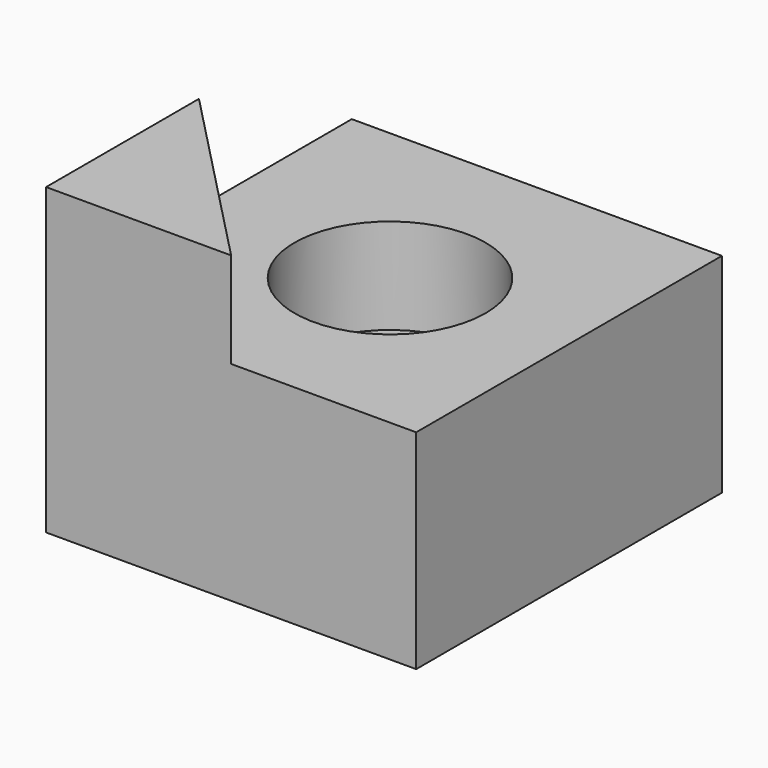
from build123d import *

# Parameters (mm, degrees)
F0_W     = 98.3961671591
F0_H     = 55.4385446012
F1_DEPTH = 101.6
F2_R     = 25.4
F3_DEPTH = 25.4
F5_DEPTH = 25.399999693
F6_R     = 6.6402223844
F7_DEPTH = 25


with BuildPart() as f1:
    # F0 (on Front) → F1 (new body)
    with BuildSketch(Plane.XZ):
        with Locations((49.1980835795, 27.7192723006)):
            Rectangle(F0_W, F0_H)
    extrude(amount=F1_DEPTH)

    # F2 (on face) → F3 (cut)
    with BuildSketch(Plane.XY.offset(55.4385446012)):
        with Locations((50.8, -50.8)):
            Circle(F2_R)
    extrude(amount=-F3_DEPTH, mode=Mode.SUBTRACT)

    # F4 (on face) → F5 (join)
    with BuildSketch(Plane.XY.offset(55.4385446012)):
        Polygon((49.1980835795, -101.6), (0, -50.8), (0, -101.6), align=None)
    extrude(amount=F5_DEPTH)

    # F6 (on face) → F7 (cut)
    with BuildSketch(Plane(origin=(-25.386966873, -24.5864196466, 0), x_dir=(-0.695690045, 0.7183420921, 0), z_dir=(0.7183420921, 0.695690045, 0))):
        with Locations((-71.5789571404, 69.76454705)):
            Circle(F6_R)
    extrude(amount=-F7_DEPTH, mode=Mode.SUBTRACT)


solid = f1.part
